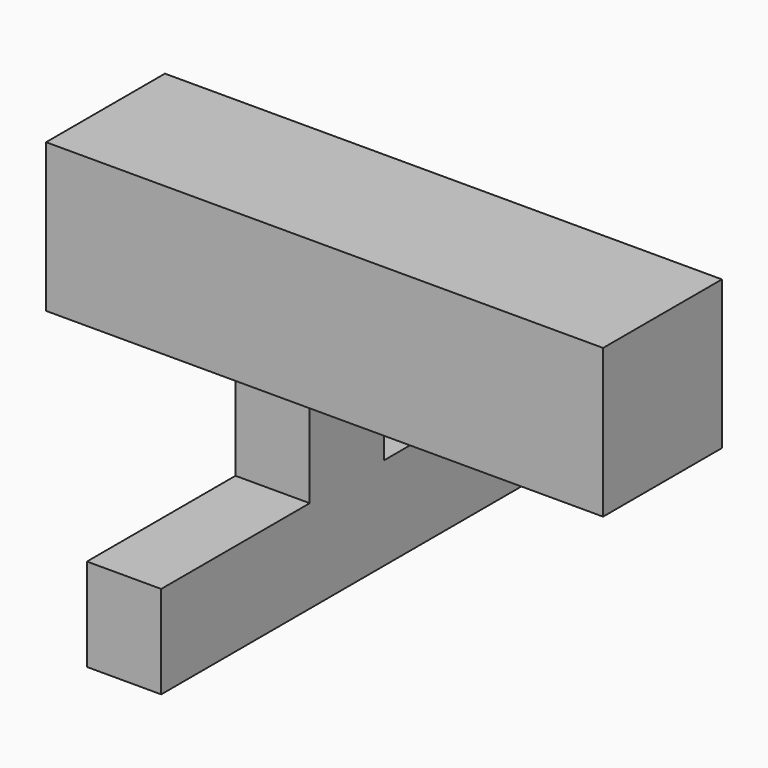
from build123d import *

# Parameters (mm, degrees)
SKETCH056_W     = 4
SKETCH056_H     = 4
PAD031_DEPTH    = 15
SKETCH057_W     = 2.5
SKETCH057_H     = 3.25
POCKET027_DEPTH = 4.5
PAD035_DEPTH    = 2


with BuildPart() as part:
    # Sketch056 → Pad031 (new body)
    with BuildSketch(Plane.YZ.offset(157)):
        with Locations((-60.5, 15.5)):
            Rectangle(SKETCH056_W, SKETCH056_H)
    extrude(amount=-PAD031_DEPTH)

    # Sketch057 (on Face6 of Pad031) → Pocket027 (cut)
    with BuildSketch(Plane(origin=(142, 0, 0), x_dir=(0, 1, 0), z_dir=(-1, 0, 0))):
        with Locations((-60.5, -15.125)):
            Rectangle(SKETCH057_W, SKETCH057_H)
    extrude(amount=-POCKET027_DEPTH, mode=Mode.SUBTRACT)

    # Sketch062 (on Face22 of Chamfer001) → Pad035 (join)
    with BuildSketch(Plane(origin=(146.5, 0, 0), x_dir=(0, -1, 0), z_dir=(-1, 0, 0))):
        Polygon((61.75, 13.5), (61.75, 10.75), (66.75, 10.75), (66.75, 8.25), (54.25, 8.25), (54.25, 10.75), (59.25, 10.75), (59.25, 13.5), align=None)
    extrude(amount=-PAD035_DEPTH)


solid = part.part
